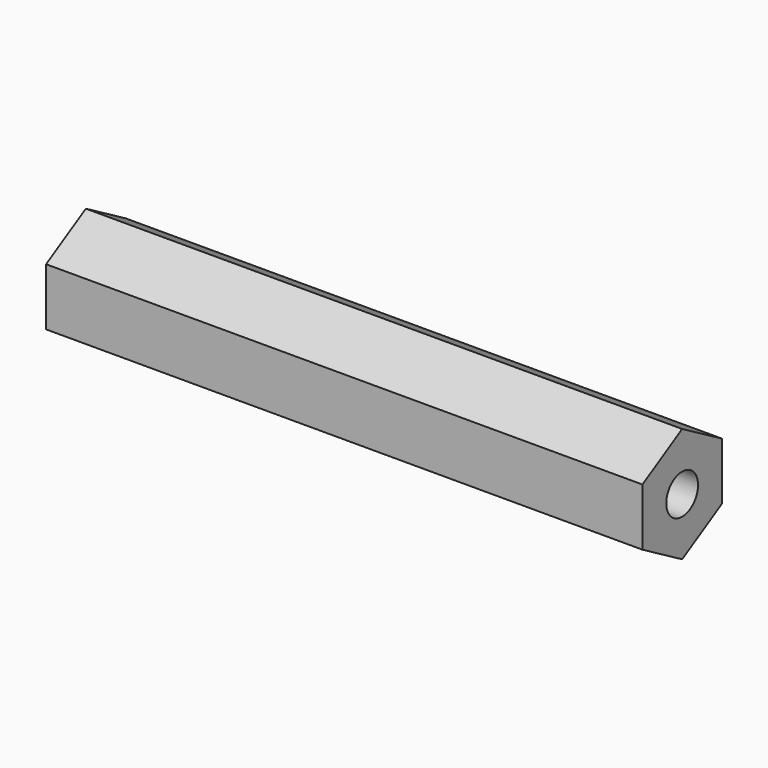
from build123d import *

# Parameters (mm, degrees)
F0_R     = 1
F1_DEPTH = 30


with BuildPart() as f1:
    # F0 (on Right) → F1 (new body)
    with BuildSketch(Plane.YZ):
        Polygon((2.5, -1.443376), (2.5, 1.443376), (0, 2.886751), (-2.5, 1.443376), (-2.5, -1.443376), (0, -2.886751), align=None)
        Circle(F0_R, mode=Mode.SUBTRACT)
    extrude(amount=F1_DEPTH)


solid = f1.part
